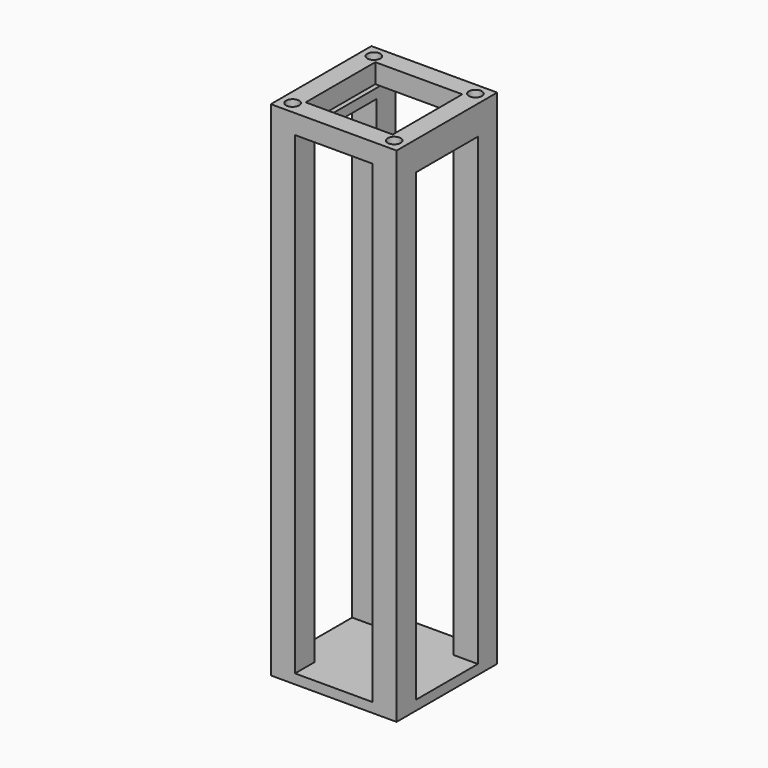
from build123d import *

# Parameters (mm, degrees)
F0_W      = 26
F0_H      = 26
F0_W_2    = 16
F0_H_2    = 16
F1_DEPTH  = 2
F2_DEPTH  = 100
F3_W      = 26
F3_H      = 26
F3_W_2    = 18
F3_H_2    = 18
F4_DEPTH  = 4
F6_D      = 2.7
F6_DEPTH  = 4
F6_TIP    = 0.8111618357
F7_W      = 16
F7_H      = 96
F8_DEPTH  = 26.001
F9_W      = 16
F9_H      = 98
F10_DEPTH = 26.001


with BuildPart() as f1:
    # F0 (on Top) → F1 (new body)
    with BuildSketch(Plane.XY):
        Rectangle(F0_W, F0_H)
        Rectangle(F0_W_2, F0_H_2, mode=Mode.SUBTRACT)
        Rectangle(F0_W, F0_H)
        Rectangle(F0_W_2, F0_H_2, mode=Mode.SUBTRACT)
        Rectangle(F0_W_2, F0_H_2)
    extrude(amount=F1_DEPTH)

    # F0 (on Top) → F2 (join)
    with BuildSketch(Plane.XY):
        Rectangle(F0_W, F0_H)
        Rectangle(F0_W_2, F0_H_2, mode=Mode.SUBTRACT)
        Rectangle(F0_W, F0_H)
        Rectangle(F0_W_2, F0_H_2, mode=Mode.SUBTRACT)
    extrude(amount=F2_DEPTH)

    # F3 (on face) → F4 (join)
    with BuildSketch(Plane.XY.offset(100)):
        Rectangle(F3_W, F3_H)
        Rectangle(F3_W_2, F3_H_2, mode=Mode.SUBTRACT)
    extrude(amount=F4_DEPTH)

    # F6
    with Locations(Plane.XY.offset(104)):
        with Locations((-10.5, 10.5), (10.5, 10.5), (-10.5, -10.5), (10.5, -10.5)):
            Hole(F6_D / 2, depth=F6_DEPTH)
            with Locations((0, 0, -(F6_DEPTH + F6_TIP / 2))):  # 118° drill point
                Cone(0, F6_D / 2, F6_TIP, mode=Mode.SUBTRACT)

    # F7 (on face) → F8 (cut, through all)
    with BuildSketch(Plane.YZ.offset(13)):
        with Locations((0.015812546, 50)):
            Rectangle(F7_W, F7_H)
    extrude(amount=-F8_DEPTH, mode=Mode.SUBTRACT)

    # F9 (on face) → F10 (cut, through all)
    with BuildSketch(Plane(origin=(0, 13, 0), x_dir=(-1, 0, 0), z_dir=(0, 1, 0))):
        with Locations((0, 51)):
            Rectangle(F9_W, F9_H)
    extrude(amount=-F10_DEPTH, mode=Mode.SUBTRACT)


solid = f1.part
